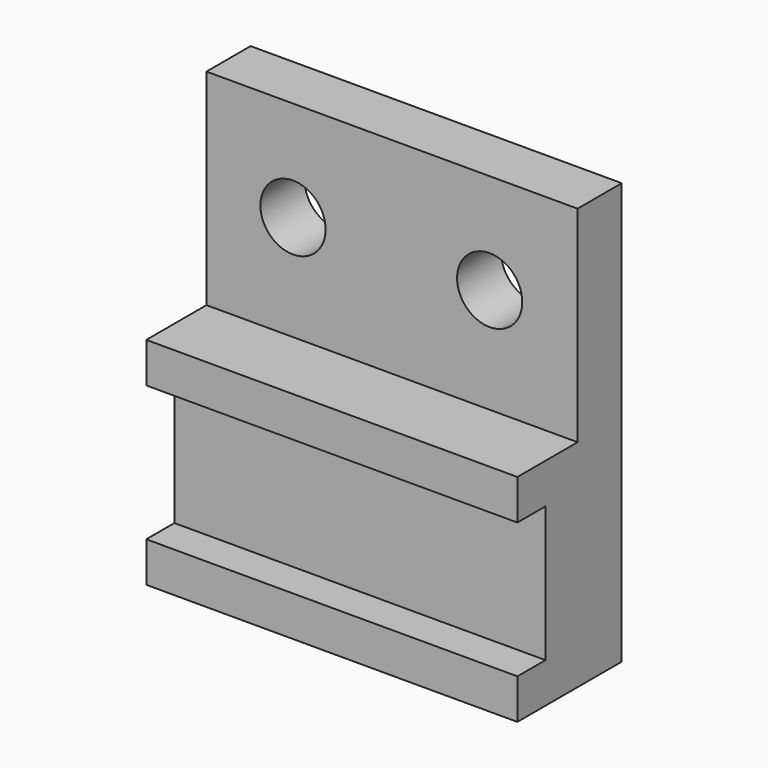
from build123d import *

# Parameters (mm, degrees)
F1_DEPTH = 117.475
F2_R     = 10.31875
F3_DEPTH = 17.4635


with BuildPart() as f1:
    # F0 (on Right) → F1 (new body)
    with BuildSketch(Plane.YZ):
        Polygon((440.357929, 522.774257), (440.357929, 656.124257), (422.895429, 656.124257), (422.895429, 591.036757), (399.082929, 591.036757), (399.082929, 578.336757), (410.195429, 578.336757), (410.195429, 535.474257), (399.082929, 535.474257), (399.082929, 522.774257), align=None)
    extrude(amount=F1_DEPTH)

    # F2 (on face) → F3 (cut, through all)
    with BuildSketch(Plane.XZ.offset(-422.895429)):
        with Locations((27.387475, 624.374257)):
            Circle(F2_R)
        with Locations((89.642141, 624.374257)):
            Circle(F2_R)
    extrude(amount=-F3_DEPTH, mode=Mode.SUBTRACT)


solid = f1.part
